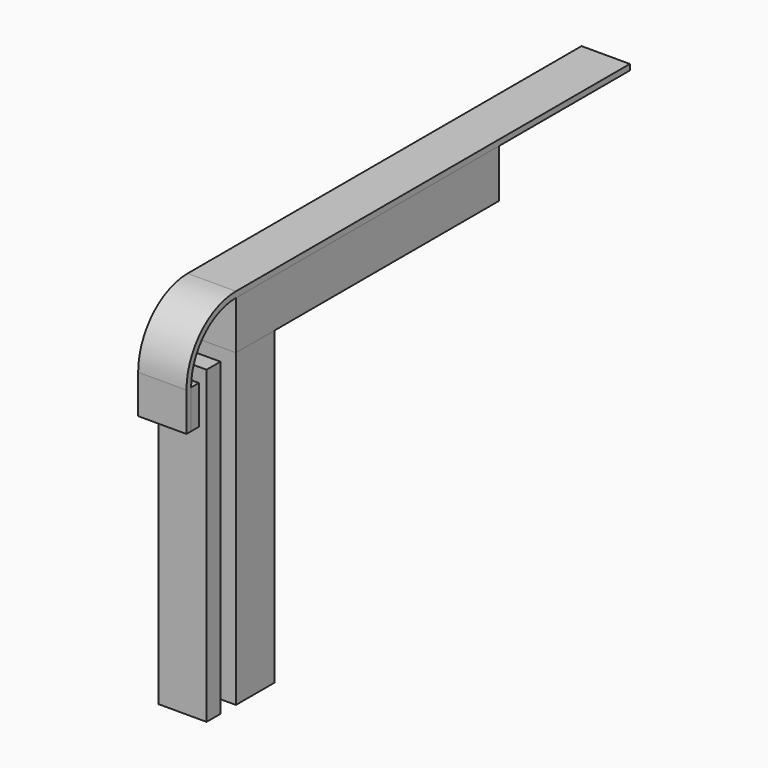
from build123d import *

# Parameters (mm, degrees)
F1_DEPTH = 25
F2_DEPTH = 25
F0_W     = 25
F0_H     = 160.451985
F3_DEPTH = 25
F0_W_2   = 9
F4_DEPTH = 25
F0_W_3   = 5
F0_H_2   = 20
F5_DEPTH = 25


with BuildPart() as f1:
    # F0 (on Right) → F1 (new body)
    with BuildSketch(Plane.YZ):
        with BuildLine():
            ThreePointArc((-29, 156.451985), (-20.506097, 176.958082), (0, 185.451985))
            Line((0, 185.451985), (170.133058, 185.451985))
            Line((170.133058, 185.451985), (254.793923, 185.451985))
            Line((254.793923, 185.451985), (254.793923, 188.451985))
            Line((254.793923, 188.451985), (0, 188.451985))
            ThreePointArc((0, 188.451985), (-22.627417, 179.079402), (-32, 156.451985))
            Line((-32, 156.451985), (-32, 136.451985))
            Line((-32, 136.451985), (-29, 136.451985))
            Line((-29, 136.451985), (-29, 156.451985))
        make_face()
    extrude(amount=F1_DEPTH)


with BuildPart() as f2:
    # F0 (on Right) → F2 (new body)
    with BuildSketch(Plane.YZ):
        Polygon((0, 185.451985), (0, 160.451985), (25, 160.451985), (170.133058, 160.451985), (170.133058, 185.451985), align=None)
    extrude(amount=F2_DEPTH)


with BuildPart() as f3:
    # F0 (on Right) → F3 (new body)
    with BuildSketch(Plane.YZ):
        with Locations((12.5, 80.225992)):
            Rectangle(F0_W, F0_H)
    extrude(amount=F3_DEPTH)


with BuildPart() as f4:
    # F0 (on Right) → F4 (new body)
    with BuildSketch(Plane.YZ):
        with Locations((-14.5, 80.225992)):
            Rectangle(F0_W_2, F0_H)
    extrude(amount=F4_DEPTH)


with BuildPart() as f5:
    # F0 (on Right) → F5 (new body)
    with BuildSketch(Plane.YZ):
        with Locations((-26.5, 146.451985)):
            Rectangle(F0_W_3, F0_H_2)
    extrude(amount=F5_DEPTH)


solid = Compound([f1.part, f2.part, f3.part, f4.part, f5.part])
